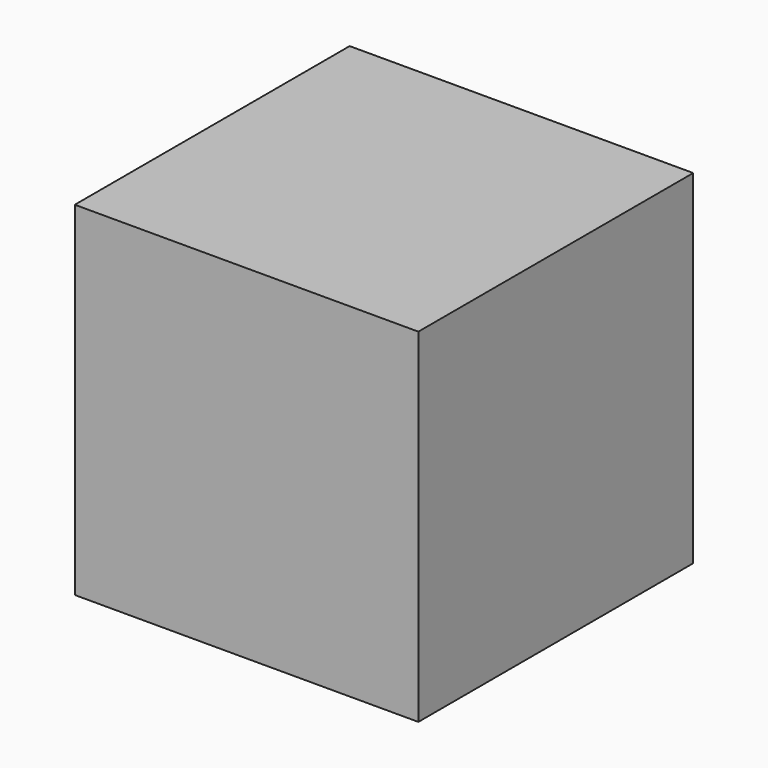
from build123d import *

# Parameters (mm, degrees)
BOX001_W     = 540
BOX001_H     = 540
BOX001_DEPTH = 540
BOX_W        = 600
BOX_H        = 600
BOX_DEPTH    = 600
BOX002_W     = 540
BOX002_H     = 540
BOX002_DEPTH = 50
BOX003_W     = 540
BOX003_H     = 540
BOX003_DEPTH = 50


with BuildPart() as loch:
    # Box001 → Box001 (new body)
    with BuildSketch(Plane(origin=(30, 30, 30), x_dir=(1, 0, 0), z_dir=(0, 0, 1))):
        with Locations((270, 270)):
            Rectangle(BOX001_W, BOX001_H)
    extrude(amount=BOX001_DEPTH)


with BuildPart() as cut:
    # Box → Box (new body)
    with BuildSketch(Plane.XY):
        with Locations((300, 300)):
            Rectangle(BOX_W, BOX_H)
    extrude(amount=BOX_DEPTH)

    # Cut: cut Loch
    add(loch.part, mode=Mode.SUBTRACT)


with BuildPart() as obj1:
    # Box002 → Box002 (new body)
    with BuildSketch(Plane(origin=(30, 30, 30), x_dir=(1, 0, 0), z_dir=(0, 0, 1))):
        with Locations((270, 270)):
            Rectangle(BOX002_W, BOX002_H)
    extrude(amount=BOX002_DEPTH)


with BuildPart() as obj2:
    # Box003 → Box003 (new body)
    with BuildSketch(Plane(origin=(30, 30, 520), x_dir=(1, 0, 0), z_dir=(0, 0, 1))):
        with Locations((270, 270)):
            Rectangle(BOX003_W, BOX003_H)
    extrude(amount=BOX003_DEPTH)


solid = Compound([cut.part, obj1.part, obj2.part])
